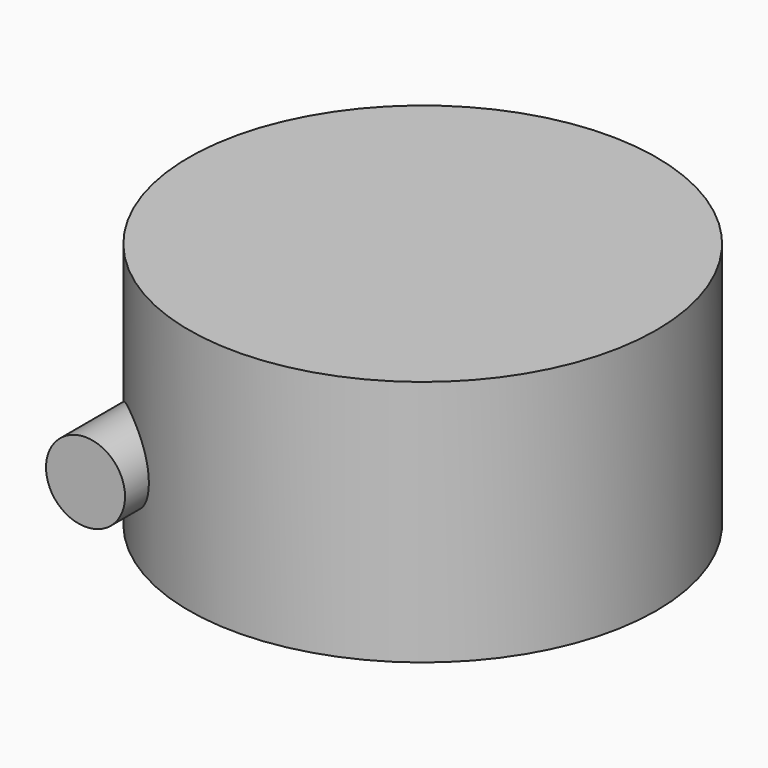
from build123d import *

# Parameters (mm, degrees)
SKETCH053_R  = 1
PAD040_DEPTH = 7
ARRAY_COUNT  = 3
SKETCH052_R  = 6
PAD039_DEPTH = 36
SKETCH_R     = 35.5
PAD_DEPTH    = 37.5


with BuildPart() as array:
    # Sketch053 → Pad040 (new body)
    with BuildSketch(Plane.XY):
        with Locations((0, 28.4)):
            Circle(SKETCH053_R)
    extrude(amount=PAD040_DEPTH)

    # Array: Array ×3 about axis
    array_axis = Axis((0, 0, 0), (0, 0, 1))


with BuildPart() as array_1:
    add(array.part)
    for i in range(1, ARRAY_COUNT):
        add(array.part.rotate(array_axis, i * 360 / ARRAY_COUNT))


with BuildPart() as body032:
    # Sketch052 → Pad039 (new body)
    with BuildSketch(Plane.XZ):
        with Locations((-22.4, 13)):
            Circle(SKETCH052_R)
    extrude(amount=PAD039_DEPTH)


with BuildPart() as blower:
    # Sketch → Pad (new body)
    with BuildSketch(Plane.XY):
        Circle(SKETCH_R)
    extrude(amount=PAD_DEPTH)

    # Fusion: union Body032
    add(body032.part)

    # Cut: cut Array
    add(array_1.part, mode=Mode.SUBTRACT)


solid = blower.part
